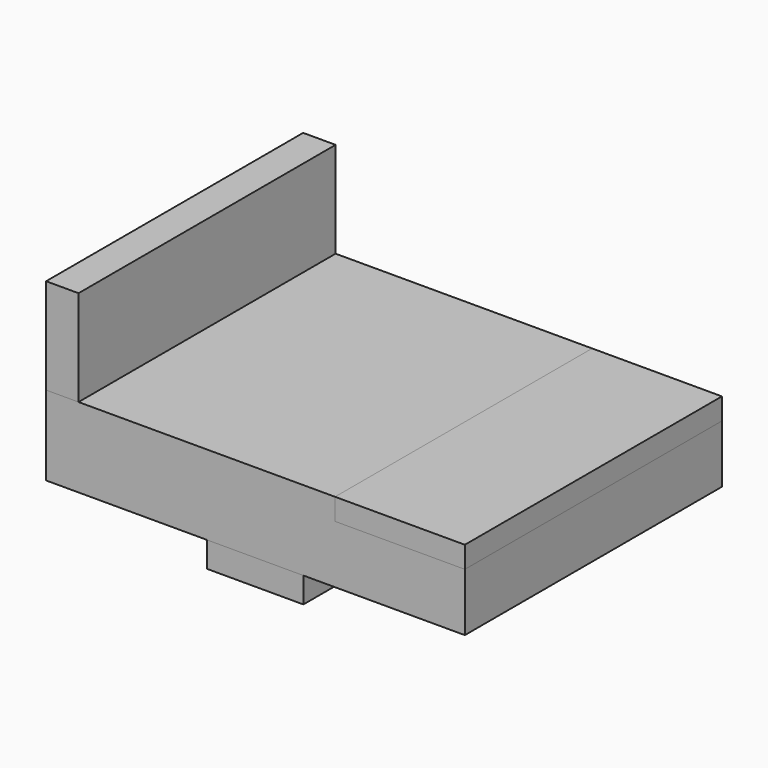
from build123d import *

# Parameters (mm, degrees)
F0_W     = 19.0863553435
F0_H     = 5.0387978554
F1_DEPTH = 63.5
F0_W_2   = 6.4130164683
F0_H_2   = 18.9336631447
F2_DEPTH = 63.5
F3_DEPTH = 63.5
F0_W_3   = 25.6520579569
F0_H_3   = 4.2753443122
F4_DEPTH = 63.5


with BuildPart() as f1:
    # F0 (on Front) → F1 (new body)
    with BuildSketch(Plane.XZ):
        with Locations((-9.5431776717, -2.5193989277)):
            Rectangle(F0_W, F0_H)
    extrude(amount=F1_DEPTH)


with BuildPart() as f2:
    # F0 (on Front) → F2 (new body)
    with BuildSketch(Plane.XZ):
        with Locations((-47.6395431906, 25.1939883456)):
            Rectangle(F0_W_2, F0_H_2)
    extrude(amount=F2_DEPTH)


with BuildPart() as f3:
    # F0 (on Front) → F3 (new body)
    with BuildSketch(Plane.XZ):
        Polygon((-19.0863553435, 0), (0, 0), (31.9123826921, 0), (31.9123826921, 11.451812461), (6.2603247352, 11.451812461), (6.2603247352, 15.7271567732), (0, 15.7271567732), (-44.4330349565, 15.7271567732), (-50.8460514247, 15.7271567732), (-50.8460514247, 0), align=None)
    extrude(amount=F3_DEPTH)


with BuildPart() as f4:
    # F0 (on Front) → F4 (new body)
    with BuildSketch(Plane.XZ):
        with Locations((19.0863537136, 13.5894846171)):
            Rectangle(F0_W_3, F0_H_3)
    extrude(amount=F4_DEPTH)


solid = Compound([f1.part, f2.part, f3.part, f4.part])
